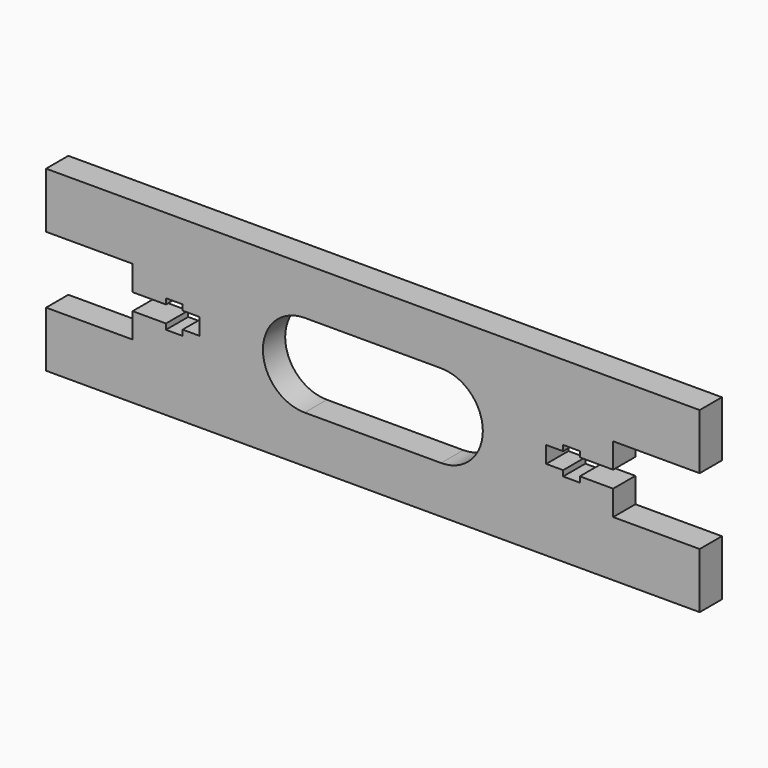
from build123d import *

# Parameters (mm, degrees)
F1_DEPTH = 5


with BuildPart() as f1:
    # F0 (on Front) → F1 (new body)
    with BuildSketch(Plane.XZ):
        Polygon((-58.772724, -16), (0, -16), (58.772724, -16), (58.772724, -6), (43.212797, -6), (43.212797, -1.5), (37.212797, -1.5), (37.212797, -2.5), (34.212797, -2.5), (34.212797, -1.5), (31.168662, -1.5), (31.168662, 0), (31.168662, 1.5), (34.212797, 1.5), (34.212797, 2.5), (37.212797, 2.5), (37.212797, 1.5), (43.212797, 1.5), (43.212797, 6), (58.772724, 6), (58.772724, 16), (0, 16), (-58.772724, 16), (-58.772724, 6), (-43.212797, 6), (-43.212797, 1.5), (-37.212797, 1.5), (-37.212797, 2.5), (-34.212797, 2.5), (-34.212797, 1.5), (-31.168662, 1.5), (-31.168662, 0), (-31.168662, -1.5), (-34.212797, -1.5), (-34.212797, -2.5), (-37.212797, -2.5), (-37.212797, -1.5), (-43.212797, -1.5), (-43.212797, -6), (-58.772724, -6), align=None)
        with BuildLine():
            ThreePointArc((12.272724, 7.5), (19.772724, 0), (12.272724, -7.5))
            Line((12.272724, -7.5), (0, -7.5))
            Line((0, -7.5), (-12.272724, -7.5))
            ThreePointArc((-12.272724, -7.5), (-19.772724, 0), (-12.272724, 7.5))
            Line((-12.272724, 7.5), (0, 7.5))
            Line((0, 7.5), (12.272724, 7.5))
        make_face(mode=Mode.SUBTRACT)
    extrude(amount=F1_DEPTH)


solid = f1.part
